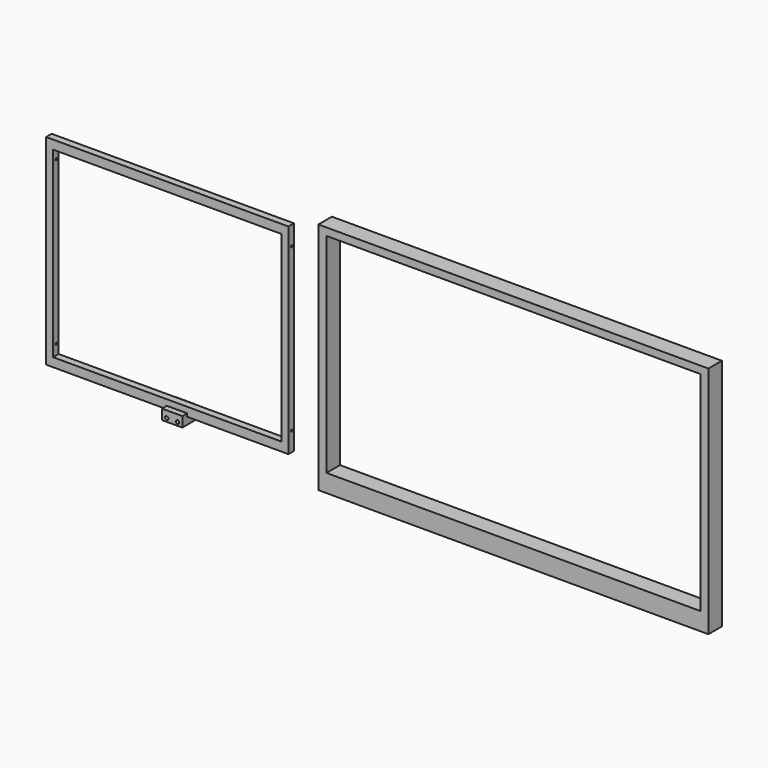
from build123d import *

# Parameters (mm, degrees)
F0_W     = 358.5
F0_H     = 296.5
F0_W_2   = 337.92
F0_H_2   = 270.336
F1_DEPTH = 10.3
F2_R     = 1.5
F3_DEPTH = 390
F5_DEPTH = 30
F6_R     = 2.5
F7_DEPTH = 15
F8_W     = 577
F8_H     = 346
F8_W_2   = 552.96
F8_H_2   = 308.64
F9_DEPTH = 25


with BuildPart() as f1:
    # F0 (on Front) → F1 (new body)
    with BuildSketch(Plane.XZ):
        Rectangle(F0_W, F0_H)
        Rectangle(F0_W_2, F0_H_2, mode=Mode.SUBTRACT)
    extrude(amount=-F1_DEPTH)

    # F2 (on face) → F3 (cut)
    with BuildSketch(Plane.YZ.offset(179.25)):
        with Locations((6, 120)):
            Circle(F2_R)
        with Locations((6, -120)):
            Circle(F2_R)
    extrude(amount=-F3_DEPTH, mode=Mode.SUBTRACT)


with BuildPart() as f5:
    # F4 (on Right) → F5 (new body)
    with BuildSketch(Plane.YZ):
        Polygon((-9.7, -158.25), (15.3, -158.25), (15.3, -138.25), (10.3, -138.25), (10.3, -148.25), (-0.7, -148.25), (-0.7, -143.25), (-9.7, -143.25), align=None)
    extrude(amount=F5_DEPTH)

    # F6 (on face) → F7 (cut)
    with BuildSketch(Plane.XZ.offset(9.7)):
        with Locations((7, -153.25)):
            Circle(F6_R)
        with Locations((23, -153.25)):
            Circle(F6_R)
    extrude(amount=-F7_DEPTH, mode=Mode.SUBTRACT)


with BuildPart() as f9:
    # F8 (on Front) → F9 (new body)
    with BuildSketch(Plane.XZ):
        with Locations((511.998723, -7.68)):
            Rectangle(F8_W, F8_H)
        with Locations((511.998723, 0)):
            Rectangle(F8_W_2, F8_H_2, mode=Mode.SUBTRACT)
    extrude(amount=-F9_DEPTH)


solid = Compound([f1.part, f5.part, f9.part])
